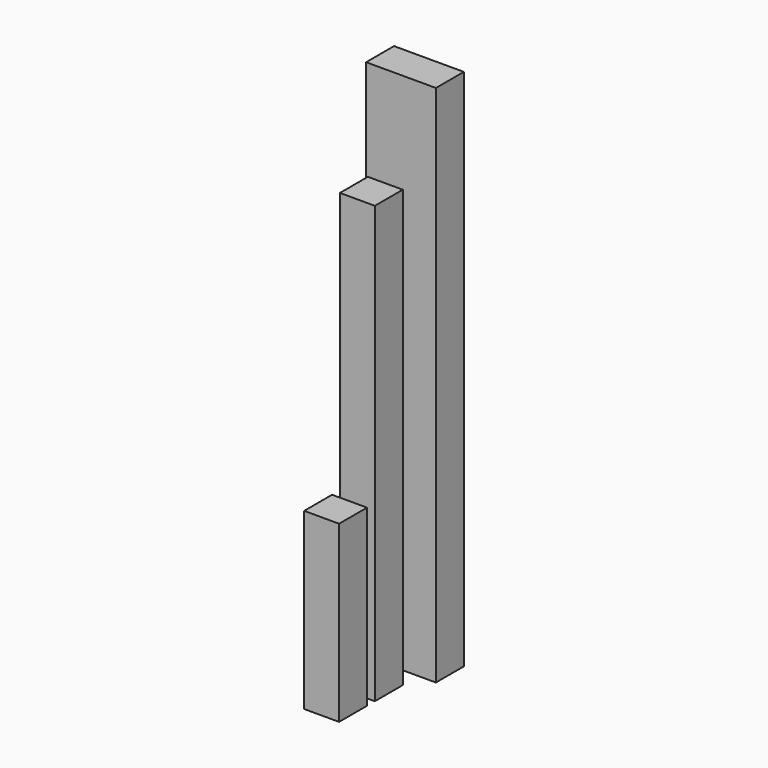
from build123d import *

# Parameters (mm, degrees)
F3_W     = 80
F3_H     = 40
F4_DEPTH = 600
F3_W_2   = 40
F5_DEPTH = 500
F6_DEPTH = 200


with BuildPart() as f4:
    # F3 (on Top) → F4 (new body)
    with BuildSketch(Plane.XY):
        Rectangle(F3_W, F3_H)
    extrude(amount=F4_DEPTH)


with BuildPart() as f5:
    # F3 (on Top) → F5 (new body)
    with BuildSketch(Plane.XY):
        with Locations((0, -62.50692904)):
            Rectangle(F3_W_2, F3_H)
    extrude(amount=F5_DEPTH)


with BuildPart() as f6:
    # F3 (on Top) → F6 (new body)
    with BuildSketch(Plane.XY):
        with Locations((0, -113.7537359072)):
            Rectangle(F3_W_2, F3_H)
    extrude(amount=F6_DEPTH)


solid = Compound([f4.part, f5.part, f6.part])
